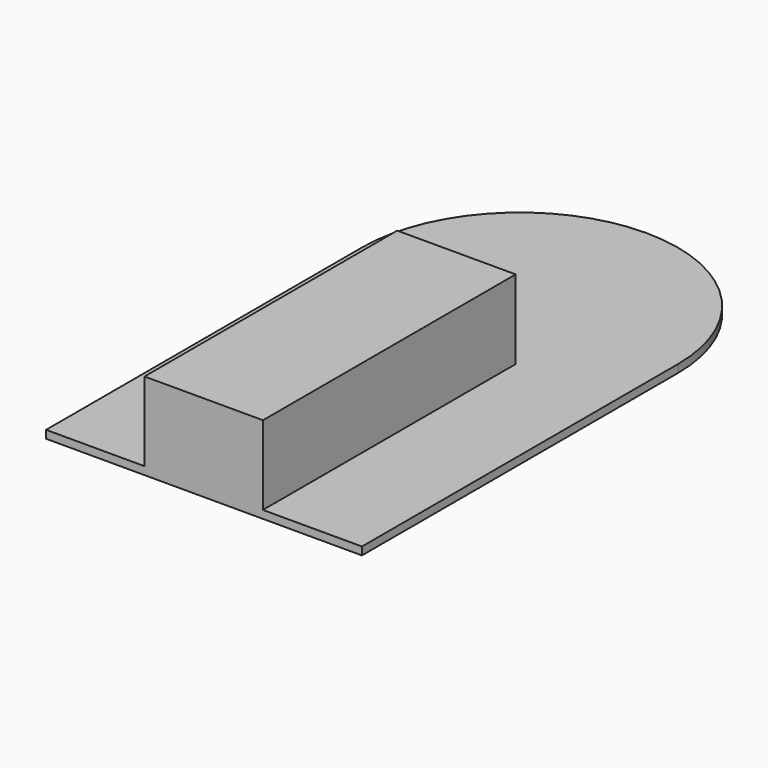
from build123d import *

# Parameters (mm, degrees)
F0_W     = 40
F0_H     = 50
F1_DEPTH = 1
F2_W     = 15
F2_H     = 40
F3_DEPTH = 10


with BuildPart() as f1:
    # F0 (on Top) → F1 (new body)
    with BuildSketch(Plane.XY):
        with Locations((-114.646277, 15.575861)):
            Rectangle(F0_W, F0_H)
        with BuildLine():
            ThreePointArc((-94.646277, 40.575861), (-114.646277, 60.575861), (-134.646277, 40.575861))
            Line((-134.646277, 40.575861), (-94.646277, 40.575861))
        make_face()
    extrude(amount=F1_DEPTH)

    # F2 (on face) → F3 (join)
    with BuildSketch(Plane.XY.offset(1)):
        with Locations((-114.680499, 10.575861)):
            Rectangle(F2_W, F2_H)
    extrude(amount=F3_DEPTH)


solid = f1.part
